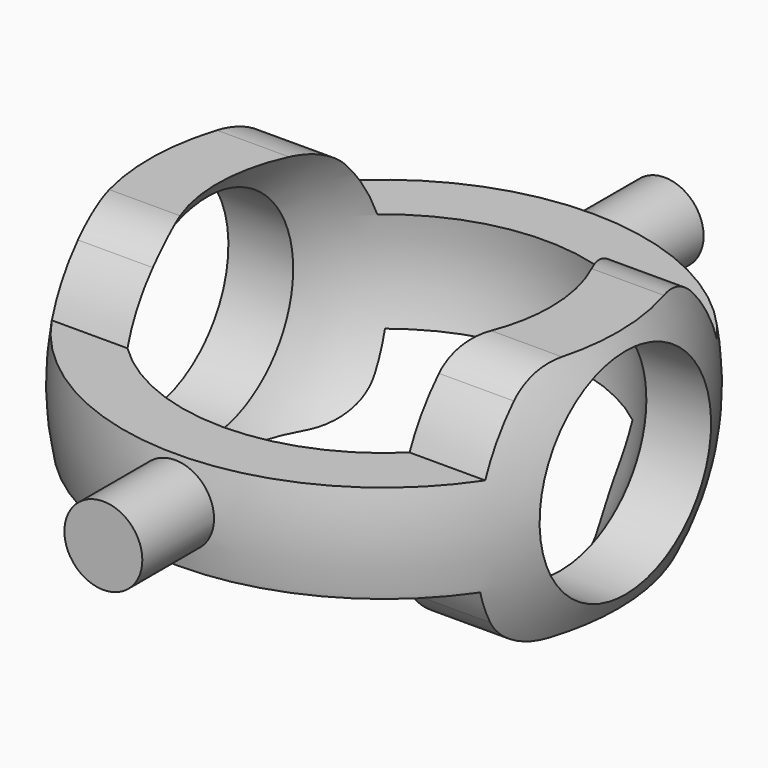
from build123d import *

# Parameters (mm, degrees)
BOX003_W                = 300
BOX003_H                = 300
BOX003_DEPTH            = 100
BOX002_W                = 300
BOX002_H                = 300
BOX002_DEPTH            = 100
CYLINDER006_R           = 11
CYLINDER006_DEPTH       = 68
CYLINDER006_PITCH_ANGLE = 90
CYLINDER007_R           = 4
CYLINDER007_DEPTH       = 72
CYLINDER007_ROLL_ANGLE  = 90
SKETCH003_R             = 16.230199
PAD002_DEPTH            = 60
SKETCH002_W             = 75.068111
SKETCH002_H             = 10.178723
PAD003_DEPTH            = 60
FILLET_R                = 7
FILLET001_R             = 7
FILLET002_R             = 7


with BuildPart() as cube003:
    # Box003 → Box003 (new body)
    with BuildSketch(Plane(origin=(-150, -150, 23), x_dir=(1, 0, 0), z_dir=(0, 0, 1))):
        with Locations((150, 150)):
            Rectangle(BOX003_W, BOX003_H)
    extrude(amount=BOX003_DEPTH)


with BuildPart() as fusion002:
    # Box002 → Box002 (new body)
    with BuildSketch(Plane(origin=(-150, -150, -102), x_dir=(1, 0, 0), z_dir=(0, 0, 1))):
        with Locations((150, 150)):
            Rectangle(BOX002_W, BOX002_H)
    extrude(amount=BOX002_DEPTH)

    # Fusion002: union Cube003
    add(cube003.part)


with BuildPart() as cylindre005:
    # Cylinder006 → Cylinder006 (new body)
    with BuildSketch(Plane.XY):
        Circle(CYLINDER006_R)
    extrude(amount=CYLINDER006_DEPTH)


with BuildPart() as cylindre005_1:
    # Cylinder006 pitch: moved
    add(cylindre005.part.rotate(Axis((0, 0, 0), (0, 1, 0)), CYLINDER006_PITCH_ANGLE))


with BuildPart() as cylindre005_2:
    # Cylinder006 placement: moved
    add(cylindre005_1.part.moved(Location((-32, 0, 10.5))))


with BuildPart() as obj1:
    # Sphere001 → Sphere001 (revolve)
    with BuildSketch(Plane(origin=(0, 0, 10.5), x_dir=(1, 0, 0), z_dir=(0, -1, 0))):
        with BuildLine():
            ThreePointArc((0, -21.2), (21.2, 0), (0, 21.2))
            Line((0, 21.2), (0, -21.2))
        make_face()
    revolve(axis=Axis((0, 0, 10.5), (0, 0, 1)))


with BuildPart() as cut008:
    # Sphere002 → Sphere002 (revolve)
    with BuildSketch(Plane(origin=(0, 0, 10.5), x_dir=(1, 0, 0), z_dir=(0, -1, 0))):
        with BuildLine():
            ThreePointArc((0, -27.1), (27.1, 0), (0, 27.1))
            Line((0, 27.1), (0, -27.1))
        make_face()
    revolve(axis=Axis((0, 0, 10.5), (0, 0, 1)))

    # Cut006: cut obj1
    add(obj1.part, mode=Mode.SUBTRACT)

    # Cut007: cut Cylindre005
    add(cylindre005_2.part, mode=Mode.SUBTRACT)

    # Cut008: cut Fusion002
    add(fusion002.part, mode=Mode.SUBTRACT)


with BuildPart() as obj2:
    # Sphere003 → Sphere003 (revolve)
    with BuildSketch(Plane(origin=(0, 0, 10.5), x_dir=(1, 0, 0), z_dir=(0, -1, 0))):
        with BuildLine():
            ThreePointArc((0, -21.4), (21.4, 0), (0, 21.4))
            Line((0, 21.4), (0, -21.4))
        make_face()
    revolve(axis=Axis((0, 0, 10.5), (0, 0, 1)))


with BuildPart() as obj3:
    # Cylinder007 → Cylinder007 (new body)
    with BuildSketch(Plane.XY):
        Circle(CYLINDER007_R)
    extrude(amount=CYLINDER007_DEPTH)


with BuildPart() as obj3_1:
    # Cylinder007 roll: moved
    add(obj3.part.rotate(Axis((0, 0, 0), (1, 0, 0)), CYLINDER007_ROLL_ANGLE))


with BuildPart() as obj3_2:
    # Cylinder007 placement: moved
    add(obj3_1.part.moved(Location((0, 36, 10.5))))

    # Cut009: cut obj2
    add(obj2.part, mode=Mode.SUBTRACT)

    # Fusion003: union Cut008
    add(cut008.part)


with BuildPart() as pad002:
    # Sketch003 → Pad002 (new body)
    with BuildSketch(Plane.YZ.offset(-25)):
        with Locations((0.508931, 9.669792)):
            Circle(SKETCH003_R)
    extrude(amount=PAD002_DEPTH)


with BuildPart() as medium2:
    # Sketch002 → Pad003 (new body)
    with BuildSketch(Plane.YZ.offset(-25)):
        with Locations((0.127233, 9.924257)):
            Rectangle(SKETCH002_W, SKETCH002_H)
    extrude(amount=PAD003_DEPTH)

    # Fusion007: union Pad002
    add(pad002.part)

    # Common002: intersect obj3
    add(obj3_2.part, mode=Mode.INTERSECT)

    # Fillet
    fillet_edges = [medium2.edges().sort_by_distance(p)[0] for p in [
        (18.017556, 9.767706, 23),
        (-18.017556, 9.767706, 23),
    ]]
    fillet(fillet_edges, radius=FILLET_R)

    # Fillet001
    fillet001_edges = [medium2.edges().sort_by_distance(p)[0] for p in [
        (-18.557399, -8.749844, 23),
        (18.557399, -8.749844, 23),
    ]]
    fillet(fillet001_edges, radius=FILLET001_R)

    # Fillet002
    fillet002_edges = [medium2.edges().sort_by_distance(p)[0] for p in [
        (-17.404195, -10.770932, -2),
        (17.404195, -10.770932, -2),
        (16.687516, 11.788794, -2),
        (-16.687516, 11.788794, -2),
    ]]
    fillet(fillet002_edges, radius=FILLET002_R)


solid = medium2.part
